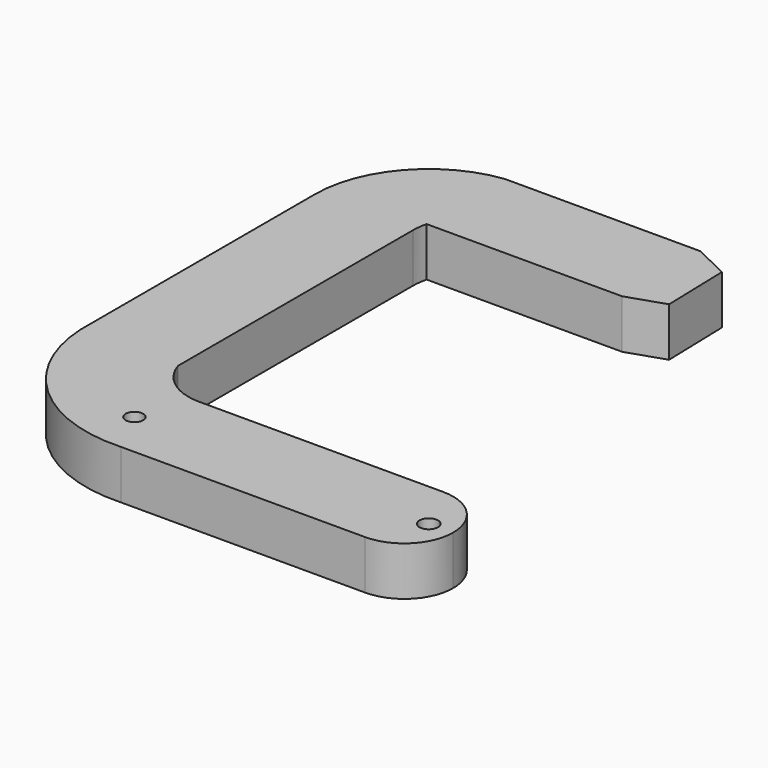
from build123d import *

# Parameters (mm, degrees)
F0_W     = 20
F0_H     = 60
F0_W_2   = 40
F0_H_2   = 20
F1_DEPTH = 5
F2_R     = 1.9
F3_DEPTH = 26
F4_R     = 1.8
F5_DEPTH = 25


with BuildPart() as f1:
    # F0 (on Top) → F1 (new body, symmetric)
    with BuildSketch(Plane.XY):
        with BuildLine():
            ThreePointArc((30, 0), (27.071068, 7.071068), (20, 10))
            Line((20, 10), (-30, 10))
            Line((-30, 10), (-30, -10))
            Line((-30, -10), (20, -10))
            ThreePointArc((20, -10), (27.071068, -7.071068), (30, 0))
        make_face()
        with BuildLine():
            Line((-30, -10), (-30, 10))
            ThreePointArc((-30, 10), (-36.446695, 12.117762), (-40.381671, 17.645941))
            Line((-40.381671, 17.645941), (-60.381671, 17.645941))
            ThreePointArc((-60.381671, 17.645941), (-50.903472, -2.454966), (-30, -10))
        make_face()
        with Locations((-50.381671, 47.645941)):
            Rectangle(F0_W, F0_H)
        with BuildLine():
            Line((-60.381671, 77.645941), (-40.381671, 77.645941))
            ThreePointArc((-40.381671, 77.645941), (-40.285886, 79.190626), (-40, 80.711644))
            Line((-40, 80.711644), (-40, 100.711644))
            ThreePointArc((-40, 100.711644), (-54.556209, 93.036191), (-60.381671, 77.645941))
        make_face()
        with Locations((-20, 90.711644)):
            Rectangle(F0_W_2, F0_H_2)
        Polygon((0, 100.711644), (0, 80.711644), (7.590995, 83.236875), (7.203378, 97.231508), align=None)
    extrude(amount=F1_DEPTH, both=True)

    # F2 (on face) → F3 (cut)
    with BuildSketch(Plane.XY.offset(5)):
        with Locations((25.055628, -0.060417)):
            Circle(F2_R)
    extrude(amount=-F3_DEPTH, mode=Mode.SUBTRACT)

    # F4 (on face) → F5 (cut)
    with BuildSketch(Plane.XY.offset(5)):
        with Locations((-34.756718, -0.582021)):
            Circle(F4_R)
    extrude(amount=-F5_DEPTH, mode=Mode.SUBTRACT)


solid = f1.part
